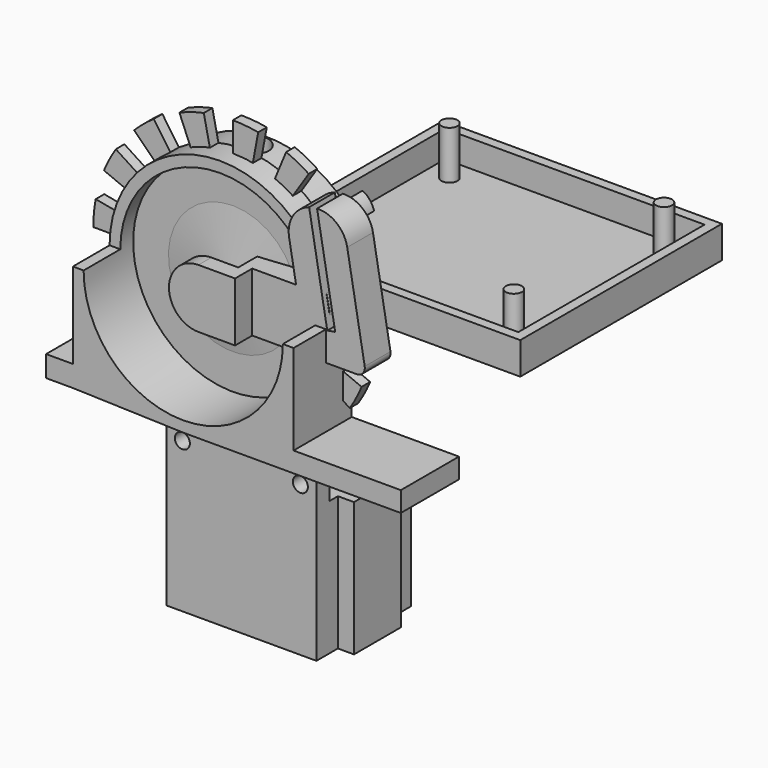
from build123d import *

# Parameters (mm, degrees)
SKETCH_R                = 18.57
SKETCH_R_2              = 1.5
SKETCH_R_3              = 6.07
PAD_DEPTH               = 1
SKETCH001_R             = 20.57
SKETCH001_R_2           = 18.57
PAD001_DEPTH            = 5
PAD013_DEPTH            = 13.55
SKETCH002_R             = 20
PAD002_DEPTH            = 26
SKETCH004_R             = 2
POCKET_DEPTH            = 20.001
POCKET_DEPTH_BACK       = 20.001
SKETCH006_R             = 1.4
POCKET001_DEPTH         = 20.001
SKETCH007_R             = 2.7
POCKET002_DEPTH         = 15
SKETCH015_R             = 26
PAD008_DEPTH            = 2
POCKET006_DEPTH         = 26.001
POCKET006_DEPTH_BACK    = 2.001
POCKET007_DEPTH         = 183.379525
POCKET007_DEPTH_BACK    = 159.379525
POLARPATTERN_COUNT      = 16
PAD003_DEPTH            = 30
SKETCH008_W             = 34
SKETCH008_H             = 19
POCKET003_DEPTH         = 5
SKETCH010_R             = 1.4
POCKET004_DEPTH         = 22.001
BODY002_ROLL_ANGLE      = 90
BODY002_PLACEMENT_ANGLE = -180
SKETCH011_W             = 52
SKETCH011_H             = 47
SKETCH011_W_2           = 48
SKETCH011_H_2           = 43
PAD005_DEPTH            = 6
SKETCH012_W             = 48
SKETCH012_H             = 43
SKETCH012_R             = 0.5
PAD006_DEPTH            = 1
SKETCH013_R             = 1.5
PAD007_DEPTH            = 10
SKETCH014_W             = 48.4
SKETCH014_H             = 43.4
SKETCH014_W_2           = 45.439167
SKETCH014_H_2           = 40.049149
POCKET005_DEPTH         = 9.001
SKETCH018_R             = 20
PAD009_DEPTH            = 1
PAD012_DEPTH            = 10
SKETCH025_W             = 13.95
SKETCH025_H             = 3.95
PAD011_DEPTH            = 10
PAD015_DEPTH            = 10
POCKET009_DEPTH         = 5
SKETCH032_W             = 24.937518
SKETCH032_H             = 29.180124
POCKET010_DEPTH         = 4


with BuildPart() as holder:
    # Sketch → Pad (new body)
    with BuildSketch(Plane.XZ):
        Circle(SKETCH_R)
        with Locations((-7.75, 13.423394)):
            Circle(SKETCH_R_2, mode=Mode.SUBTRACT)
        with Locations((7.75, 13.423394)):
            Circle(SKETCH_R_2, mode=Mode.SUBTRACT)
        with Locations((15.5, 0)):
            Circle(SKETCH_R_2, mode=Mode.SUBTRACT)
        with Locations((7.75, -13.423394)):
            Circle(SKETCH_R_2, mode=Mode.SUBTRACT)
        with Locations((-7.75, -13.423394)):
            Circle(SKETCH_R_2, mode=Mode.SUBTRACT)
        with Locations((-15.5, 0)):
            Circle(SKETCH_R_2, mode=Mode.SUBTRACT)
        with Locations((0, 7)):
            Circle(SKETCH_R_3, mode=Mode.SUBTRACT)
    extrude(amount=PAD_DEPTH)

    # Sketch001 → Pad001 (join)
    with BuildSketch(Plane.XZ):
        Circle(SKETCH001_R)
        Circle(SKETCH001_R_2, mode=Mode.SUBTRACT)
    extrude(amount=PAD001_DEPTH)

    # Sketch027 → Pad013 (join)
    with BuildSketch(Plane.XZ):
        with BuildLine():
            ThreePointArc((-18.57, 0), (0, -18.57), (18.57, 0))
            Line((18.57, 0), (20.57, 0))
            Line((20.57, 0), (20.57, -16.829634))
            Line((20.57, -16.829634), (40.57, -16.829634))
            Line((40.57, -16.829634), (40.57, -20.579634))
            Line((40.57, -20.579634), (0, -20.579634))
            Line((-20.57, -19.95), (0, -20.579634))
            Line((-25.57, -19.95), (-20.57, -19.95))
            Line((-25.57, -16), (-25.57, -19.95))
            Line((-20.57, -16), (-25.57, -16))
            Line((-20.57, -16), (-20.57, 0))
            Line((-20.57, 0), (-18.57, 0))
        make_face()
    extrude(amount=PAD013_DEPTH)


with BuildPart() as connector:
    # Sketch002 → Pad002 (new body)
    with BuildSketch(Plane.XZ):
        Circle(SKETCH002_R)
        with BuildLine():
            ThreePointArc((-1.781825, 2.5), (0, -3.07), (1.781825, 2.5))
            Line((-1.781825, 2.5), (1.781825, 2.5))
        make_face(mode=Mode.SUBTRACT)
    extrude(amount=-PAD002_DEPTH)

    # Sketch003 → Groove (revolve, cut)
    with BuildSketch(Plane.XY):
        Polygon((20, 26), (4.07, 26), (4.07, 7.5), (20, 6), align=None)
    revolve(axis=Axis((0, 0, 0), (0, 1, 0)), mode=Mode.SUBTRACT)

    # Sketch004 → Pocket (cut, two sides)
    with BuildSketch(Plane.XY) as pocket_sk:
        with Locations((0, 13.5)):
            Circle(SKETCH004_R)
    extrude(amount=-POCKET_DEPTH, mode=Mode.SUBTRACT)
    extrude(pocket_sk.sketch, amount=POCKET_DEPTH_BACK, mode=Mode.SUBTRACT)

    # Sketch006 → Pocket001 (cut, through all)
    with BuildSketch(Plane.XY):
        with Locations((0, 3)):
            Circle(SKETCH006_R)
    extrude(amount=POCKET001_DEPTH, mode=Mode.SUBTRACT)

    # Sketch007 → Pocket002 (cut)
    with BuildSketch(Plane.XY.offset(20)):
        with Locations((0, 3)):
            Circle(SKETCH007_R)
    extrude(amount=-POCKET002_DEPTH, mode=Mode.SUBTRACT)

    # Sketch015 → Pad008 (join)
    with BuildSketch(Plane.XZ):
        Circle(SKETCH015_R)
    extrude(amount=PAD008_DEPTH)

    # Sketch016 → Pocket006 (cut, two sides)
    with BuildSketch(Plane.XZ) as pocket006_sk:
        with BuildLine():
            ThreePointArc((-1.781825, 2.5), (0, -3.07), (1.781825, 2.5))
            Line((-1.781825, 2.5), (1.781825, 2.5))
        make_face()
    extrude(amount=-POCKET006_DEPTH, mode=Mode.SUBTRACT)
    extrude(pocket006_sk.sketch, amount=POCKET006_DEPTH_BACK, mode=Mode.SUBTRACT)

    # Sketch017 → Pocket007 (cut, two sides)
    with BuildSketch(Plane.XZ) as pocket007_sk:
        with BuildLine():
            Line((20, 0), (26, 0))
            ThreePointArc((26, 0), (25.857569, 2.71774), (25.431838, 5.405704))
            Line((19.562952, 4.158234), (25.431838, 5.405704))
            ThreePointArc((20, 0), (19.890438, 2.090569), (19.562952, 4.158234))
        make_face()
    pocket007 = extrude(amount=-POCKET007_DEPTH, mode=Mode.SUBTRACT) + extrude(pocket007_sk.sketch, amount=POCKET007_DEPTH_BACK, mode=Mode.SUBTRACT)

    # PolarPattern: Pocket007 ×16 about axis
    polarpattern_axis = Axis((0, 0, 0), (0, -1, 0))
    for i in range(1, POLARPATTERN_COUNT):
        add(pocket007.rotate(polarpattern_axis, i * 360 / POLARPATTERN_COUNT), mode=Mode.SUBTRACT)


with BuildPart() as obj1:
    # Sketch005 → Pad003 (new body)
    with BuildSketch(Plane.XZ):
        with BuildLine():
            Line((-14, 0), (14, 0))
            Line((14, 0), (14, 5))
            Line((14, 5), (17, 5))
            Line((17, 5), (17, 16))
            Line((17, 16), (14, 16))
            Line((14, 22), (14, 16))
            Line((11, 22), (14, 22))
            Line((11, 5.5), (11, 22))
            ThreePointArc((8.5, 3), (10.267767, 3.732233), (11, 5.5))
            Line((-8.5, 3), (8.5, 3))
            ThreePointArc((-11, 5.5), (-10.267767, 3.732233), (-8.5, 3))
            Line((-11, 22), (-11, 5.5))
            Line((-14, 22), (-11, 22))
            Line((-14, 16), (-14, 22))
            Line((-17, 16), (-14, 16))
            Line((-17, 5), (-17, 16))
            Line((-14, 5), (-17, 5))
            Line((-14, 0), (-14, 5))
        make_face()
    extrude(amount=PAD003_DEPTH)

    # Sketch008 → Pocket003 (cut)
    with BuildSketch(Plane.XZ):
        with Locations((0, 12.5)):
            Rectangle(SKETCH008_W, SKETCH008_H)
    extrude(amount=POCKET003_DEPTH, mode=Mode.SUBTRACT)

    # Sketch010 → Pocket004 (cut, through all)
    with BuildSketch(Plane.XY):
        with Locations((-11, -2)):
            Circle(SKETCH010_R)
        with Locations((11, -2)):
            Circle(SKETCH010_R)
    extrude(amount=POCKET004_DEPTH, mode=Mode.SUBTRACT)


with BuildPart() as obj1_1:
    # Body002 roll: moved
    add(obj1.part.rotate(Axis((0, 0, 0), (1, 0, 0)), BODY002_ROLL_ANGLE))


with BuildPart() as obj1_2:
    # Body002 placement: moved
    add(obj1_1.part.moved(Location((0, 0, -29))).rotate(Axis((0, 0, -29), (0, 0, 1)), BODY002_PLACEMENT_ANGLE))


with BuildPart() as motorcontrollerholder:
    # Sketch011 → Pad005 (new body)
    with BuildSketch(Plane.XY):
        with Locations((26, 23.5)):
            Rectangle(SKETCH011_W, SKETCH011_H)
        with Locations((26, 23.5)):
            Rectangle(SKETCH011_W_2, SKETCH011_H_2, mode=Mode.SUBTRACT)
    extrude(amount=PAD005_DEPTH)

    # Sketch012 → Pad006 (join)
    with BuildSketch(Plane.XY):
        with Locations((26, 23.5)):
            Rectangle(SKETCH012_W, SKETCH012_H)
        with Locations((6, 41)):
            Circle(SKETCH012_R, mode=Mode.SUBTRACT)
        with Locations((6, 6)):
            Circle(SKETCH012_R, mode=Mode.SUBTRACT)
        with Locations((46, 6)):
            Circle(SKETCH012_R, mode=Mode.SUBTRACT)
        with Locations((46, 41)):
            Circle(SKETCH012_R, mode=Mode.SUBTRACT)
    extrude(amount=PAD006_DEPTH)

    # Sketch013 → Pad007 (join)
    with BuildSketch(Plane.XY):
        with Locations((6, 41)):
            Circle(SKETCH013_R)
        with Locations((6, 6)):
            Circle(SKETCH013_R)
        with Locations((46, 6)):
            Circle(SKETCH013_R)
        with Locations((46, 41)):
            Circle(SKETCH013_R)
    extrude(amount=PAD007_DEPTH)

    # Sketch014 → Pocket005 (cut, through all)
    with BuildSketch(Plane.XY.offset(1)):
        with Locations((26, 23.5)):
            Rectangle(SKETCH014_W, SKETCH014_H)
        with Locations((26.011635, 23.557234)):
            Rectangle(SKETCH014_W_2, SKETCH014_H_2, mode=Mode.SUBTRACT)
    extrude(amount=POCKET005_DEPTH, mode=Mode.SUBTRACT)


with BuildPart() as connectortop:
    # Sketch018 → Pad009 (new body)
    with BuildSketch(Plane.XZ):
        Circle(SKETCH018_R)
    extrude(amount=PAD009_DEPTH)

    # Sketch026 → Revolution (revolve)
    with BuildSketch(Plane.YZ):
        Polygon((0, 0), (0, 20), (-1, 20), (-3.5, 0), align=None)
    revolve(axis=Axis((0, 0, 0), (0, 1, 0)))

    # Sketch024 → Pad012 (join)
    with BuildSketch(Plane.XZ):
        with BuildLine():
            ThreePointArc((-1.747141, 2.5), (0, -3.05), (1.747141, 2.5))
            Line((-1.747141, 2.5), (1.747141, 2.5))
        make_face()
    extrude(amount=PAD012_DEPTH)


with BuildPart() as inserttest:
    # Sketch025 → Pad011 (new body)
    with BuildSketch(Plane.XY):
        with Locations((6.975, 1.975)):
            Rectangle(SKETCH025_W, SKETCH025_H)
    extrude(amount=PAD011_DEPTH)


with BuildPart() as encoderholder:
    # Sketch030 → Pad015 (new body)
    with BuildSketch(Plane.XZ):
        with BuildLine():
            ThreePointArc((0, 5.5), (-5.5, 0), (0, -5.5))
            Line((0, -5.5), (26.321659, -5.5))
            ThreePointArc((26.321659, -5.5), (27.470726, -4.964181), (27.798871, -3.739528))
            Line((27.798871, -3.739528), (24.540013, 14.742374))
            ThreePointArc((24.540013, 14.742374), (22.578767, 18.066516), (18.916033, 19.283392))
            Line((22.293251, 0.130236), (18.916033, 19.283392))
            Line((20.816039, -0.130236), (22.293251, 0.130236))
            Line((20.816039, -0.130236), (17.438821, 19.022919))
            ThreePointArc((17.438821, 19.022919), (14.413172, 16.626701), (13.707128, 12.832244))
            Line((15, 5.5), (13.707128, 12.832244))
            Line((0, 5.5), (15, 5.5))
        make_face()
    extrude(amount=PAD015_DEPTH)

    # Sketch031 → Pocket009 (cut)
    with BuildSketch(Plane.XZ.offset(2)):
        with BuildLine():
            ThreePointArc((0, 5.5), (-5.5, 0), (0, -5.5))
            Line((0, -5.5), (5.015774, -5.5))
            Line((5.015774, -5.5), (5.015774, 5.5))
            Line((5.015774, 5.5), (0, 5.5))
        make_face()
    extrude(amount=POCKET009_DEPTH, mode=Mode.SUBTRACT)

    # Sketch032 → Pocket010 (cut)
    with BuildSketch(Plane.XZ.offset(10)):
        with Locations((19.290856, 6.378833)):
            Rectangle(SKETCH032_W, SKETCH032_H)
    extrude(amount=-POCKET010_DEPTH, mode=Mode.SUBTRACT)


solid = Compound([holder.part, connector.part, obj1_2.part, motorcontrollerholder.part, connectortop.part, inserttest.part, encoderholder.part])
